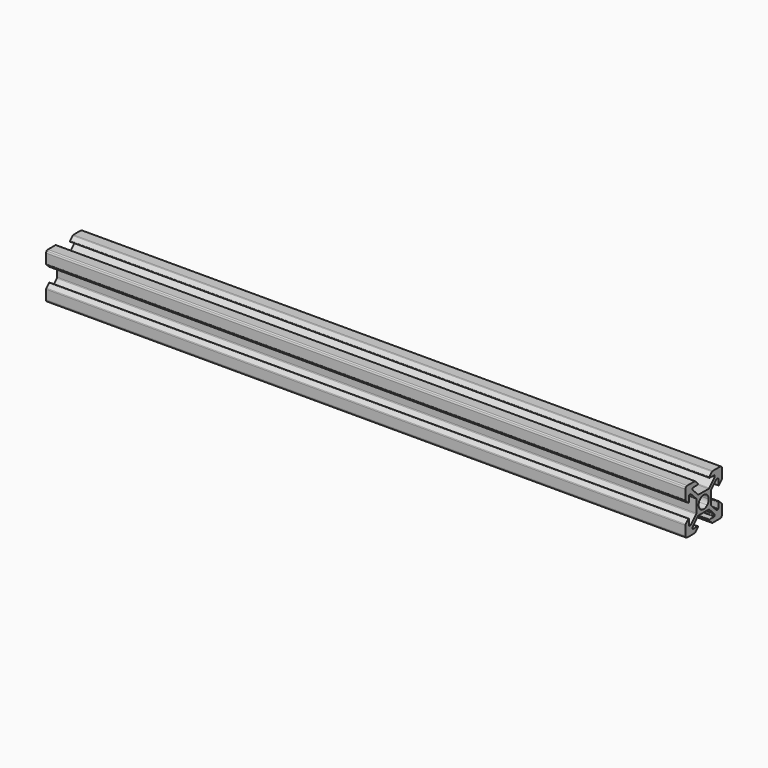
from build123d import *

# Parameters (mm, degrees)
PAD060_DEPTH               = 140
PAD060_MIRRORED007_2_DEPTH = 140
POLARPATTERN001_COUNT      = 4
BODY124_PLACEMENT_ANGLE    = 90


with BuildPart() as part:
    # Sketch255 → Pad060 (new body, symmetric)
    with BuildSketch(Plane.XY):
        with BuildLine():
            ThreePointArc((-9, 10), (-9.382683, 9.92388), (-9.707107, 9.707107))
            Line((-9.707107, 9.707107), (-1.944544, 1.944544))
            ThreePointArc((0, 2.75), (-1.052379, 2.540669), (-1.944544, 1.944544))
            Line((0, 2.75), (0, 4))
            Line((-2.732233, 4), (0, 4))
            ThreePointArc((-3.085786, 4.146447), (-2.923575, 4.03806), (-2.732233, 4))
            Line((-5.853553, 6.914214), (-3.085786, 4.146447))
            ThreePointArc((-6, 7.267767), (-5.96194, 7.076425), (-5.853553, 6.914214))
            Line((-6, 7.75), (-6, 7.267767))
            ThreePointArc((-5.75, 8), (-5.926777, 7.926777), (-6, 7.75))
            Line((-3.3, 8), (-5.75, 8))
            ThreePointArc((-3.3, 8), (-3.06903, 8.154329), (-3.123223, 8.426777))
            Line((-4.55, 9.853553), (-3.123223, 8.426777))
            ThreePointArc((-4.55, 9.853553), (-4.712212, 9.96194), (-4.903553, 10))
            Line((-9, 10), (-4.903553, 10))
        make_face()
    pad060 = extrude(amount=PAD060_DEPTH, both=True)

    # Sketch255 Mirrored007 2 → Pad060 Mirrored007 2 (add, symmetric)
    with BuildSketch(Plane(origin=(0, 0, 0), x_dir=(-1, 0, 0), z_dir=(0, 0, -1))):
        with BuildLine():
            ThreePointArc((-9, 10), (-9.382683, 9.92388), (-9.707107, 9.707107))
            Line((-9.707107, 9.707107), (-1.944544, 1.944544))
            ThreePointArc((0, 2.75), (-1.052379, 2.540669), (-1.944544, 1.944544))
            Line((0, 2.75), (0, 4))
            Line((-2.732233, 4), (0, 4))
            ThreePointArc((-3.085786, 4.146447), (-2.923575, 4.03806), (-2.732233, 4))
            Line((-5.853553, 6.914214), (-3.085786, 4.146447))
            ThreePointArc((-6, 7.267767), (-5.96194, 7.076425), (-5.853553, 6.914214))
            Line((-6, 7.75), (-6, 7.267767))
            ThreePointArc((-5.75, 8), (-5.926777, 7.926777), (-6, 7.75))
            Line((-3.3, 8), (-5.75, 8))
            ThreePointArc((-3.3, 8), (-3.06903, 8.154329), (-3.123223, 8.426777))
            Line((-4.55, 9.853553), (-3.123223, 8.426777))
            ThreePointArc((-4.55, 9.853553), (-4.712212, 9.96194), (-4.903553, 10))
            Line((-9, 10), (-4.903553, 10))
        make_face()
    pad060_mirrored007_2 = extrude(amount=-PAD060_MIRRORED007_2_DEPTH, both=True)

    # PolarPattern001: Pad060, Pad060 Mirrored007 2 ×4 about axis
    polarpattern001_axis = Axis((0, 0, 0), (0, 0, 1))
    for i in range(1, POLARPATTERN001_COUNT):
        add(pad060.rotate(polarpattern001_axis, i * 360 / POLARPATTERN001_COUNT))
        add(pad060_mirrored007_2.rotate(polarpattern001_axis, i * 360 / POLARPATTERN001_COUNT))


with BuildPart() as part_1:
    # Body124 placement: moved
    add(part.part.moved(Location((0, -90, -6))).rotate(Axis((0, -90, -6), (0, 1, 0)), BODY124_PLACEMENT_ANGLE))


solid = part_1.part
